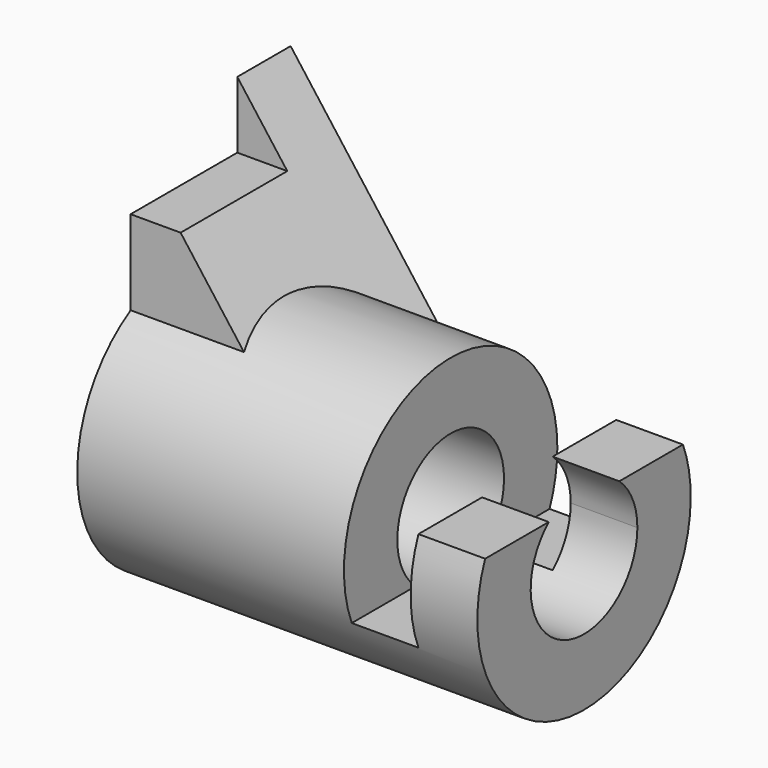
from build123d import *

# Parameters (mm, degrees)
F0_R          = 25.4
F1_DEPTH      = 76.2
F3_DEPTH      = 25.4
F5_DEPTH      = 12.7
F5_DEPTH_BACK = 25.4
F6_W          = 25.4
F6_H          = 12.7
F7_DEPTH      = 76.201
F8_R          = 12.7
F9_DEPTH      = 76.201


with BuildPart() as f1:
    # F0 (on Right) → F1 (new body)
    with BuildSketch(Plane.YZ):
        Circle(F0_R)
    extrude(amount=-F1_DEPTH)

    # F2 (on Front) → F3 (cut, symmetric)
    with BuildSketch(Plane.XZ):
        Polygon((0, 9.525), (0, 25.4), (-25.4, 25.4), (-25.4, -9.525), (-12.7, -9.525), (-12.7, 9.525), align=None)
    extrude(amount=F3_DEPTH, both=True, mode=Mode.SUBTRACT)

    # F4 (on Front) → F5 (join, two sides)
    with BuildSketch(Plane.XZ) as f5_sk:
        Polygon((-76.2, 50.8), (-76.2, 0), (-38.1, 0), align=None)
    extrude(amount=F5_DEPTH)
    extrude(f5_sk.sketch, amount=-F5_DEPTH_BACK)

    # F6 (on face) → F7 (cut, through all)
    with BuildSketch(Plane(origin=(-76.2, 0, 0), x_dir=(0, -1, 0), z_dir=(-1, 0, 0))):
        with Locations((0, 44.45)):
            Rectangle(F6_W, F6_H)
    extrude(amount=-F7_DEPTH, mode=Mode.SUBTRACT)

    # F8 (on face) → F9 (cut, through all)
    with BuildSketch(Plane.YZ):
        Circle(F8_R)
    extrude(amount=-F9_DEPTH, mode=Mode.SUBTRACT)


solid = f1.part
